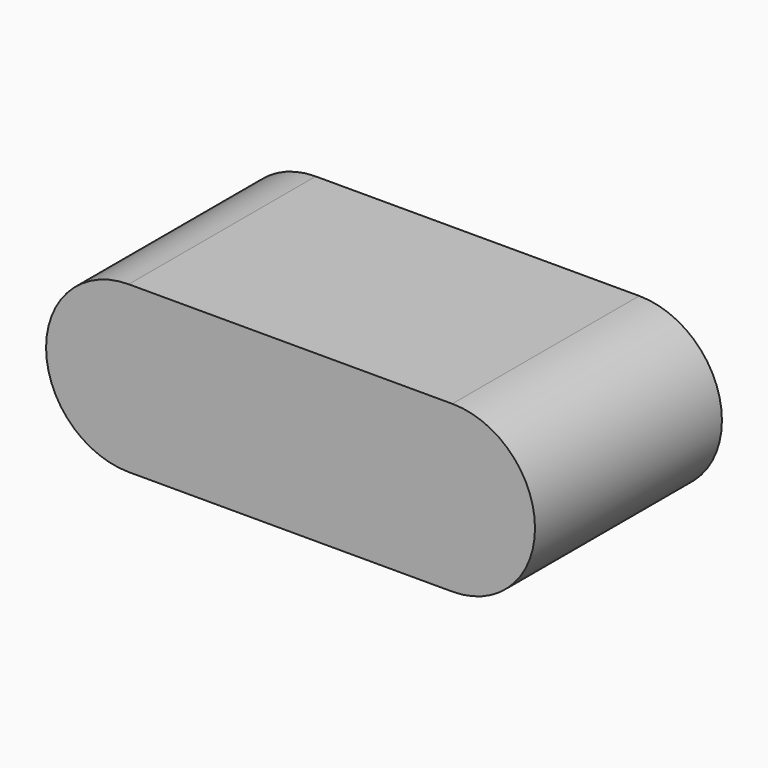
from build123d import *

# Parameters (mm, degrees)
F1_DEPTH      = 25.4
F1_DEPTH_BACK = 25.4


with BuildPart() as f1:
    # F0 (on Front) → F1 (new body, two sides)
    with BuildSketch(Plane.XZ) as f1_sk:
        with BuildLine():
            Line((26.419375, 30.684403), (-43.931105, 30.684403))
            ThreePointArc((-43.931105, 30.684403), (-61.905843, 12.709665), (-43.931105, -5.265073))
            Line((-43.931105, -5.265073), (26.419375, -5.265073))
            ThreePointArc((26.419375, -5.265073), (44.394113, 12.709665), (26.419375, 30.684403))
        make_face()
    extrude(amount=F1_DEPTH)
    extrude(f1_sk.sketch, amount=-F1_DEPTH_BACK)


solid = f1.part
